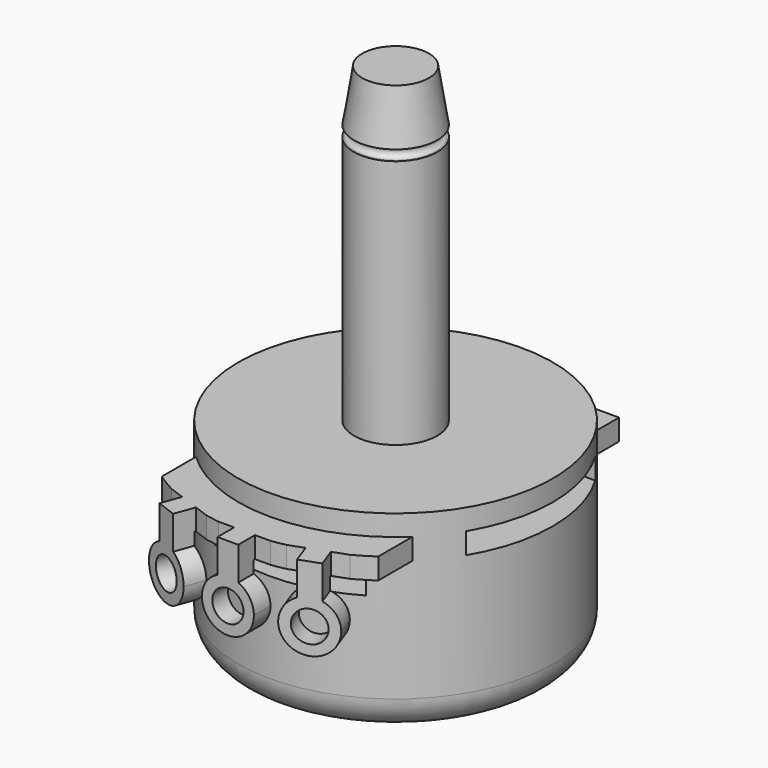
from build123d import *

# Parameters (mm, degrees)
F0_W          = 12
F0_H          = 15
F2_R          = 2.54
F3_W          = 8.255
F3_H          = 1.6129
F4_DEPTH      = 12.7
F6_DEPTH      = 12.7
F8_DEPTH      = 5.08
F8_DEPTH_BACK = 25.4
F10_DEPTH     = 1.6129
F12_DEPTH     = 6.35
F13_R         = 1.190625
F14_DEPTH     = 1.5875
F15_R         = 1.190625
F16_DEPTH     = 1.5875
F17_R         = 1.190625
F18_DEPTH     = 1.5875
F19_R         = 3.175
F20_DEPTH     = 19.05


with BuildPart() as f1:
    # F0 (on Front) → F1 (revolve)
    with BuildSketch(Plane.XZ):
        with Locations((-6, 7.5)):
            Rectangle(F0_W, F0_H)
    revolve(axis=Axis((0, 0, 7.5), (0, 0, -1)))

    # F2
    f2_edges = [f1.edges().sort_by_distance(p)[0] for p in [
        (12, 0, 0),
    ]]
    fillet(f2_edges, radius=F2_R)

    # F3 (on Front) → F4 (cut, symmetric)
    with BuildSketch(Plane.XZ):
        with Locations((-4.1275, 12.60605)):
            Rectangle(F3_W, F3_H)
        with Locations((4.1275, 12.60605)):
            Rectangle(F3_W, F3_H)
    extrude(amount=F4_DEPTH, both=True, mode=Mode.SUBTRACT)

    # F5 (on Right) → F6 (cut, symmetric)
    with BuildSketch(Plane.YZ):
        Polygon((6.1694761611, 13.4125), (-6.1694761611, 13.4125), (-6.1694761611, 11.7996), (0, 11.7996), (6.1694761611, 11.7996), align=None)
    extrude(amount=F6_DEPTH, both=True, mode=Mode.SUBTRACT)

    # F7 (on Front) → F8 (cut, two sides)
    with BuildSketch(Plane.XZ) as f8_sk:
        Polygon((0, 11.7996), (-6.0325, 11.7996), (-6.0325, 9.41835), (6.0325, 9.41835), (6.0325, 11.7996), align=None)
    extrude(amount=-F8_DEPTH, mode=Mode.SUBTRACT)
    extrude(f8_sk.sketch, amount=F8_DEPTH_BACK, mode=Mode.SUBTRACT)

    # F9 (on face) → F10 (join)
    with BuildSketch(Plane.XY.offset(11.7996)):
        with BuildLine():
            Line((0, 10.984), (-8.255, 10.984))
            Line((-8.255, 10.984), (-8.255, -11.9694016141))
            ThreePointArc((-8.255, -11.9694016141), (0, -14.54), (8.255, -11.9694016141))
            Line((8.255, -11.9694016141), (8.255, 10.984))
            Line((8.255, 10.984), (0, 10.984))
        make_face()
    extrude(amount=F10_DEPTH)

    # F11 (on face) → F12 (join)
    with BuildSketch(Plane.XY.offset(13.4125)):
        with BuildLine():
            ThreePointArc((6.7911445407, -12.8565919212), (5.8958664247, -13.2909878904), (4.972972884, -13.6631307062))
            ThreePointArc((4.972972884, -13.6631307062), (4.0267866244, -13.9712773032), (3.0617394519, -14.213984365))
            Line((3.0617394519, -14.213984365), (3.6046964295, -15.7057464005))
            Line((3.6046964295, -15.7057464005), (7.3341015182, -14.3483539567))
            Line((7.3341015182, -14.3483539567), (6.7911445407, -12.8565919212))
        make_face()
        with BuildLine():
            ThreePointArc((1.984375, -14.4039527859), (0.9945165892, -14.5059483231), (0, -14.54))
            ThreePointArc((0, -14.54), (-0.9945165892, -14.5059483231), (-1.984375, -14.4039527859))
            Line((-1.984375, -14.4039527859), (-1.984375, -15.9914527859))
            Line((-1.984375, -15.9914527859), (1.984375, -15.9914527859))
            Line((1.984375, -15.9914527859), (1.984375, -14.4039527859))
        make_face()
        with BuildLine():
            ThreePointArc((-3.0617394519, -14.213984365), (-4.972972884, -13.6631307062), (-6.7911445407, -12.8565919212))
            Line((-6.7911445407, -12.8565919212), (-7.3341015182, -14.3483539567))
            Line((-7.3341015182, -14.3483539567), (-3.6046964295, -15.7057464005))
            Line((-3.6046964295, -15.7057464005), (-3.0617394519, -14.213984365))
        make_face()
    extrude(amount=-F12_DEPTH)

    # F13 (on face) → F14 (cut, through all)
    with BuildSketch(Plane(origin=(5.4693989738, -15.0270501786, 0), x_dir=(0.9396926208, 0.3420201433, 0), z_dir=(0.3420201433, -0.9396926208, 0))):
        with BuildLine():
            ThreePointArc((-1.984375, 9.046875), (-1.6602472402, 10.13376195), (-0.79375, 10.8655847289))
            Line((-0.79375, 10.8655847289), (-0.79375, 13.4125))
            Line((-0.79375, 13.4125), (-1.984375, 13.4125))
            Line((-1.984375, 13.4125), (-1.984375, 9.046875))
        make_face()
        with BuildLine():
            ThreePointArc((0.79375, 10.8655847289), (1.6602472402, 10.13376195), (1.984375, 9.046875))
            Line((1.984375, 9.046875), (1.984375, 13.4125))
            Line((1.984375, 13.4125), (0.79375, 13.4125))
            Line((0.79375, 13.4125), (0.79375, 10.8655847289))
        make_face()
        with BuildLine():
            Line((1.984375, 7.0625), (1.984375, 9.046875))
            ThreePointArc((1.984375, 9.046875), (1.4031650189, 7.6437099811), (0, 7.0625))
            Line((0, 7.0625), (1.984375, 7.0625))
        make_face()
        with BuildLine():
            Line((-1.984375, 7.0625), (0, 7.0625))
            ThreePointArc((0, 7.0625), (-1.4031650189, 7.6437099811), (-1.984375, 9.046875))
            Line((-1.984375, 9.046875), (-1.984375, 7.0625))
        make_face()
        with Locations((0, 9.046875)):
            Circle(F13_R)
    extrude(amount=-F14_DEPTH, mode=Mode.SUBTRACT)

    # F15 (on face) → F16 (cut, through all)
    with BuildSketch(Plane.XZ.offset(15.9914527859)):
        with BuildLine():
            ThreePointArc((-1.984375, 9.046875), (-1.6602472402, 10.13376195), (-0.79375, 10.8655847289))
            Line((-0.79375, 10.8655847289), (-0.79375, 13.4125))
            Line((-0.79375, 13.4125), (-1.984375, 13.4125))
            Line((-1.984375, 13.4125), (-1.984375, 9.046875))
        make_face()
        with BuildLine():
            ThreePointArc((0.79375, 10.8655847289), (1.6602472402, 10.13376195), (1.984375, 9.046875))
            Line((1.984375, 9.046875), (1.984375, 13.4125))
            Line((1.984375, 13.4125), (0.79375, 13.4125))
            Line((0.79375, 13.4125), (0.79375, 10.8655847289))
        make_face()
        with Locations((0, 9.046875)):
            Circle(F15_R)
        with BuildLine():
            Line((1.984375, 7.0625), (1.984375, 9.046875))
            ThreePointArc((1.984375, 9.046875), (1.4031650189, 7.6437099811), (0, 7.0625))
            Line((0, 7.0625), (1.984375, 7.0625))
        make_face()
        with BuildLine():
            Line((-1.984375, 7.0625), (0, 7.0625))
            ThreePointArc((0, 7.0625), (-1.4031650189, 7.6437099811), (-1.984375, 9.046875))
            Line((-1.984375, 9.046875), (-1.984375, 7.0625))
        make_face()
    extrude(amount=-F16_DEPTH, mode=Mode.SUBTRACT)

    # F17 (on face) → F18 (cut, through all)
    with BuildSketch(Plane(origin=(-5.4693989738, -15.0270501786, 0), x_dir=(0.9396926208, -0.3420201433, 0), z_dir=(-0.3420201433, -0.9396926208, 0))):
        with BuildLine():
            ThreePointArc((-1.984375, 9.046875), (-1.6602472402, 10.13376195), (-0.79375, 10.8655847289))
            Line((-0.79375, 10.8655847289), (-0.79375, 13.4125))
            Line((-0.79375, 13.4125), (-1.984375, 13.4125))
            Line((-1.984375, 13.4125), (-1.984375, 9.046875))
        make_face()
        with BuildLine():
            ThreePointArc((0.79375, 10.8655847289), (1.6602472402, 10.13376195), (1.984375, 9.046875))
            Line((1.984375, 9.046875), (1.984375, 13.4125))
            Line((1.984375, 13.4125), (0.79375, 13.4125))
            Line((0.79375, 13.4125), (0.79375, 10.8655847289))
        make_face()
        with Locations((0, 9.046875)):
            Circle(F17_R)
        with BuildLine():
            Line((1.984375, 7.0625), (1.984375, 9.046875))
            ThreePointArc((1.984375, 9.046875), (1.4031650189, 7.6437099811), (0, 7.0625))
            Line((0, 7.0625), (1.984375, 7.0625))
        make_face()
        with BuildLine():
            Line((-1.984375, 7.0625), (0, 7.0625))
            ThreePointArc((0, 7.0625), (-1.4031650189, 7.6437099811), (-1.984375, 9.046875))
            Line((-1.984375, 9.046875), (-1.984375, 7.0625))
        make_face()
    extrude(amount=-F18_DEPTH, mode=Mode.SUBTRACT)

    # F19 (on face) → F20 (join)
    with BuildSketch(Plane.XY.offset(15)):
        Circle(F19_R)
    extrude(amount=F20_DEPTH)

    # F21 (on Front) → F22 (revolve)
    with BuildSketch(Plane.XZ):
        with BuildLine():
            Line((0, 38.8125), (0, 34.05))
            Line((0, 34.05), (3.048, 34.05))
            ThreePointArc((3.048, 34.05), (2.651125, 34.446875), (3.048, 34.84375))
            Line((3.048, 34.84375), (3.175, 34.84375))
            Line((3.175, 34.84375), (2.54, 38.8125))
            Line((2.54, 38.8125), (0, 38.8125))
        make_face()
    revolve(axis=Axis((0, 0, 36.43125), (0, 0, 1)))


solid = f1.part
